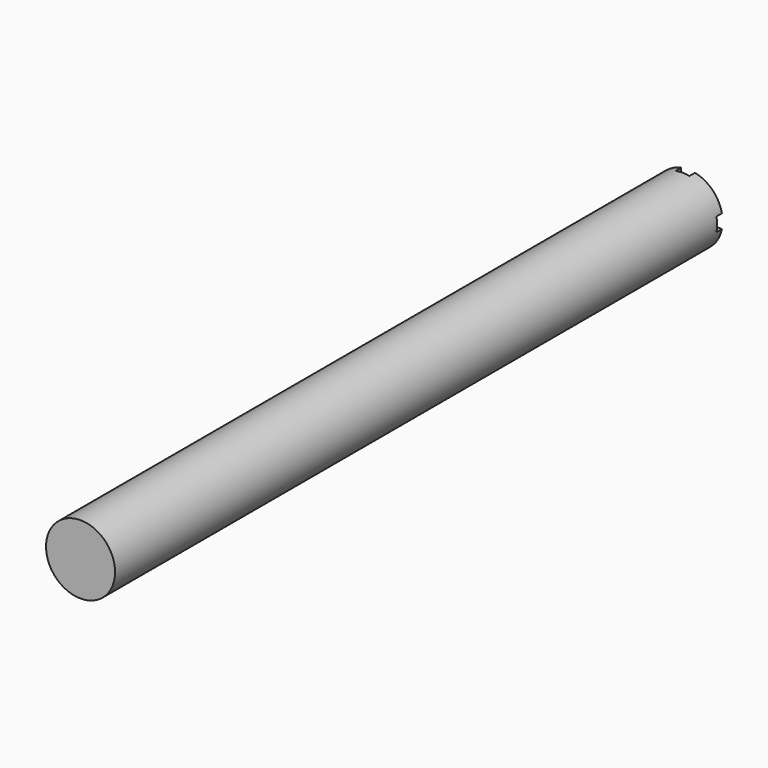
from build123d import *

# Parameters (mm, degrees)
F0_R     = 12.7
F1_DEPTH = 279.4
F3_DEPTH = 25.4
F4_DEPTH = 2.54


with BuildPart() as f1:
    # F0 (on Front) → F1 (new body)
    with BuildSketch(Plane.XZ):
        Circle(F0_R)
    extrude(amount=F1_DEPTH)

    # F2 (on face) → F3 (cut)
    with BuildSketch(Plane(origin=(0, 0, 0), x_dir=(-1, 0, 0), z_dir=(0, 1, 0))):
        with BuildLine():
            ThreePointArc((5.819871, -2.54), (6.216055, -1.297366), (6.35, 0))
            ThreePointArc((6.35, 0), (6.216055, 1.297366), (5.819871, 2.54))
            ThreePointArc((5.819871, 2.54), (4.490128, 4.490128), (2.54, 5.819871))
            ThreePointArc((2.54, 5.819871), (0, 6.35), (-2.54, 5.819871))
            ThreePointArc((-2.54, 5.819871), (-4.490128, 4.490128), (-5.819871, 2.54))
            ThreePointArc((-5.819871, 2.54), (-6.35, 0), (-5.819871, -2.54))
            ThreePointArc((-5.819871, -2.54), (-4.490128, -4.490128), (-2.54, -5.819871))
            ThreePointArc((-2.54, -5.819871), (0, -6.35), (2.54, -5.819871))
            ThreePointArc((2.54, -5.819871), (4.490128, -4.490128), (5.819871, -2.54))
        make_face()
    extrude(amount=-F3_DEPTH, mode=Mode.SUBTRACT)

    # F2 (on face) → F4 (cut)
    with BuildSketch(Plane(origin=(0, 0, 0), x_dir=(-1, 0, 0), z_dir=(0, 1, 0))):
        with BuildLine():
            ThreePointArc((5.819871, 2.54), (6.216055, 1.297366), (6.35, 0))
            ThreePointArc((6.35, 0), (6.216055, -1.297366), (5.819871, -2.54))
            Line((5.819871, -2.54), (12.443408, -2.54))
            ThreePointArc((12.443408, -2.54), (12.635689, -1.276464), (12.7, 0))
            ThreePointArc((12.7, 0), (12.635689, 1.276464), (12.443408, 2.54))
            Line((12.443408, 2.54), (5.819871, 2.54))
        make_face()
        with BuildLine():
            ThreePointArc((-2.54, 5.819871), (0, 6.35), (2.54, 5.819871))
            Line((2.54, 5.819871), (2.54, 12.443408))
            ThreePointArc((2.54, 12.443408), (0, 12.7), (-2.54, 12.443408))
            Line((-2.54, 12.443408), (-2.54, 5.819871))
        make_face()
        with BuildLine():
            Line((2.54, -12.443408), (2.54, -5.819871))
            ThreePointArc((2.54, -5.819871), (0, -6.35), (-2.54, -5.819871))
            Line((-2.54, -5.819871), (-2.54, -12.443408))
            ThreePointArc((-2.54, -12.443408), (0, -12.7), (2.54, -12.443408))
        make_face()
        with BuildLine():
            ThreePointArc((-5.819871, -2.54), (-6.35, 0), (-5.819871, 2.54))
            Line((-5.819871, 2.54), (-12.443408, 2.54))
            ThreePointArc((-12.443408, 2.54), (-12.7, 0), (-12.443408, -2.54))
            Line((-12.443408, -2.54), (-5.819871, -2.54))
        make_face()
    extrude(amount=-F4_DEPTH, mode=Mode.SUBTRACT)


solid = f1.part
